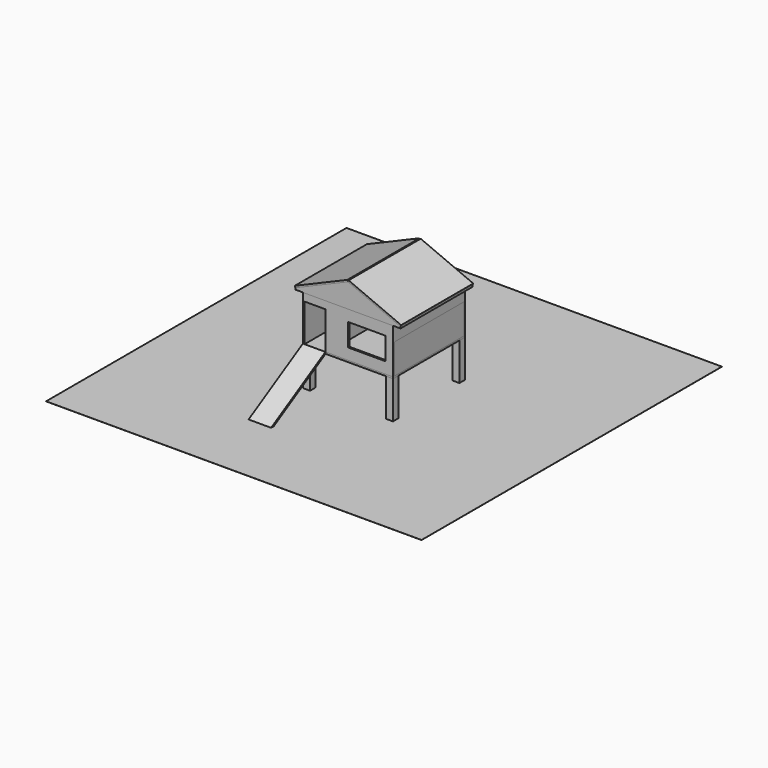
from build123d import *

# Parameters (mm, degrees)
F0_W      = 5000
F0_H      = 5000
F1_DEPTH  = 1
F3_W      = 1200
F3_H      = 1200
F4_DEPTH  = 22
F5_W      = 95
F5_H      = 95
F6_DEPTH  = 500
F7_W      = 1200
F7_H      = 1200
F7_W_2    = 1156
F7_H_2    = 1156
F8_DEPTH  = 600
F10_W     = 300
F10_H     = 1051.723809
F11_DEPTH = 22
F12_W     = 22
F12_H     = 878
F13_DEPTH = 600
F14_W     = 278
F14_H     = 500
F15_DEPTH = 22
F16_W     = 1156
F16_H     = 400
F17_DEPTH = 22
F18_W     = 1156
F18_H     = 400
F19_DEPTH = 22
F20_W     = 500
F20_H     = 300
F21_DEPTH = 22
F23_DEPTH = 22
F25_W     = 122
F25_H     = 1156
F26_DEPTH = 22
F28_W     = 760.452264
F28_H     = 1200
F29_DEPTH = 22


with BuildPart() as f1:
    # F0 (on Top) → F1 (new body)
    with BuildSketch(Plane.XY):
        Rectangle(F0_W, F0_H)
    extrude(amount=-F1_DEPTH)


with BuildPart() as f4:
    # F3 (on offset) → F4 (new body)
    with BuildSketch(Plane.XY.offset(500)):
        Rectangle(F3_W, F3_H)
    extrude(amount=F4_DEPTH)


with BuildPart() as f6:
    # F5 (on offset) → F6 (new body, through all)
    with BuildSketch(Plane.XY.offset(500)):
        with Locations((-552.5, 552.5)):
            Rectangle(F5_W, F5_H)
        with Locations((552.5, 552.5)):
            Rectangle(F5_W, F5_H)
        with Locations((-552.5, -552.5)):
            Rectangle(F5_W, F5_H)
        with Locations((552.5, -552.5)):
            Rectangle(F5_W, F5_H)
    extrude(amount=-F6_DEPTH)


with BuildPart() as f8:
    # F7 (on face) → F8 (new body)
    with BuildSketch(Plane.XY.offset(522)):
        Rectangle(F7_W, F7_H)
        Rectangle(F7_W_2, F7_H_2, mode=Mode.SUBTRACT)
    extrude(amount=F8_DEPTH)

    # F14 (on face) → F15 (cut, through all)
    with BuildSketch(Plane.XZ.offset(600)):
        with Locations((-439, 772)):
            Rectangle(F14_W, F14_H)
    extrude(amount=-F15_DEPTH, mode=Mode.SUBTRACT)

    # F16 (on face) → F17 (cut, through all)
    with BuildSketch(Plane.YZ.offset(600)):
        with Locations((0, 722)):
            Rectangle(F16_W, F16_H)
    extrude(amount=-F17_DEPTH, mode=Mode.SUBTRACT)

    # F20 (on face) → F21 (cut, through all)
    with BuildSketch(Plane.XZ.offset(600)):
        with Locations((250, 822)):
            Rectangle(F20_W, F20_H)
    extrude(amount=-F21_DEPTH, mode=Mode.SUBTRACT)


with BuildPart() as f11:
    # F10 (on face) → F11 (new body)
    with BuildSketch(Plane(origin=(0, -376.03263, 651.307621), x_dir=(1, 0, 0), z_dir=(0, -0.5, 0.866025))):
        with Locations((-450, -784.477146)):
            Rectangle(F10_W, F10_H)
    extrude(amount=-F11_DEPTH)


with BuildPart() as f13:
    # F12 (on face) → F13 (new body)
    with BuildSketch(Plane.XY.offset(522)):
        with Locations((-289, -139)):
            Rectangle(F12_W, F12_H)
    extrude(amount=F13_DEPTH)


with BuildPart() as f19:
    # F18 (on face) → F19 (new body)
    with BuildSketch(Plane.YZ.offset(600)):
        with Locations((0, 722)):
            Rectangle(F18_W, F18_H)
    extrude(amount=-F19_DEPTH)


with BuildPart() as f23:
    # F22 (on face) → F23 (new body)
    with BuildSketch(Plane.XZ.offset(600)):
        Polygon((-700, 1144), (-700, 1122), (700, 1122), (700, 1144), (0, 1441.132371), align=None)
    extrude(amount=-F23_DEPTH)


with BuildPart() as f24_1:
    # F24: instance of F23
    add(f23.part.mirror(Plane.XZ))


with BuildPart() as f26:
    # F25 (on face) → F26 (new body)
    with BuildSketch(Plane.XY.offset(1122)):
        with Locations((-639, 0)):
            Rectangle(F25_W, F25_H)
    extrude(amount=F26_DEPTH)


with BuildPart() as f27_1:
    # F27: instance of F26
    add(f26.part.mirror(Plane.YZ))


with BuildPart() as f29:
    # F28 (on face) → F29 (new body)
    with BuildSketch(Plane(origin=(-518.331936, 0, 1221.113518), x_dir=(0.920505, 0, 0.390731), z_dir=(-0.390731, 0, 0.920505))):
        with Locations((182.869146, 0)):
            Rectangle(F28_W, F28_H)
    extrude(amount=F29_DEPTH)


with BuildPart() as f30_1:
    # F30: instance of F29
    add(f29.part.mirror(Plane.YZ))


solid = Compound([f1.part, f4.part, f6.part, f8.part, f11.part, f13.part, f19.part, f23.part, f24_1.part, f26.part, f27_1.part, f29.part, f30_1.part])
